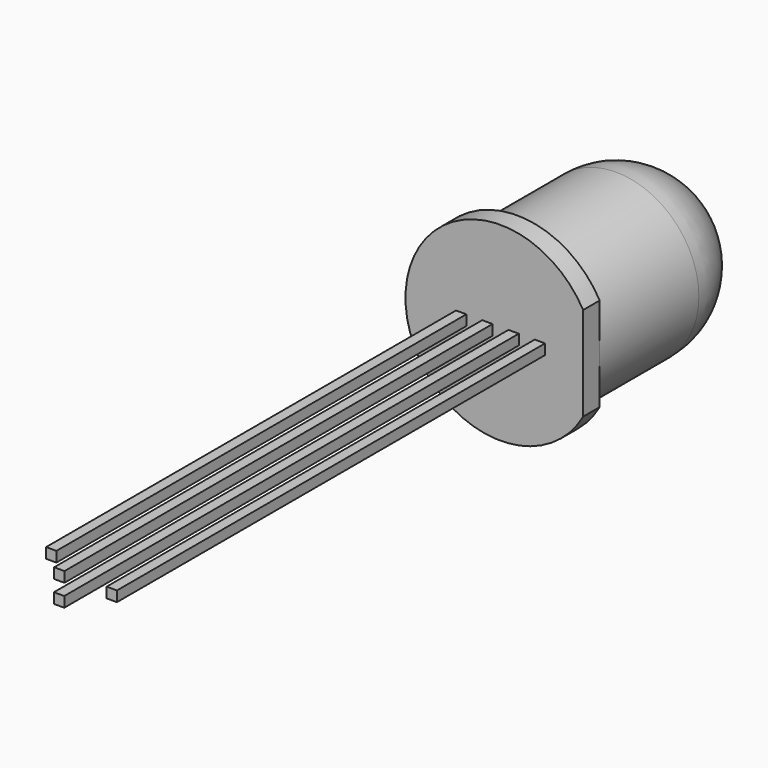
from build123d import *

# Parameters (mm, degrees)
SKETCH002_W  = 1
SKETCH002_H  = 6.098212
POCKET_DEPTH = 5
SKETCH006_W  = 0.5
SKETCH006_H  = 0.5
PAD_DEPTH    = 24.8
SKETCH008_W  = 0.5
SKETCH008_H  = 0.5
PAD001_DEPTH = 25.9
SKETCH010_W  = 0.5
SKETCH010_H  = 0.5
PAD002_DEPTH = 27.5
SKETCH012_W  = 0.5
SKETCH012_H  = 0.5
PAD003_DEPTH = 25.9


with BuildPart() as led_plastic:
    # Sketch → Revolution (revolve)
    with BuildSketch(Plane.XY):
        with BuildLine():
            ThreePointArc((4, 7), (2.828427, 9.828427), (0, 11))
            Line((0, 0), (0, 11))
            Line((4.6, 0), (0, 0))
            Line((4.6, 1), (4.6, 0))
            Line((4, 1), (4.6, 1))
            Line((4, 7), (4, 1))
        make_face()
    revolve(axis=Axis((0, 0, 0), (0, 1, 0)))

    # Sketch002 (on Face2 of Revolution) → Pocket (cut)
    with BuildSketch(Plane.XZ):
        with Locations((4.5, 0)):
            Rectangle(SKETCH002_W, SKETCH002_H)
    extrude(amount=-POCKET_DEPTH, mode=Mode.SUBTRACT)


with BuildPart() as lead4:
    # Sketch006 (on ShapeBinder) → Pad (new body)
    with BuildSketch(Plane.XZ):
        with Locations((-1.905, 0)):
            Rectangle(SKETCH006_W, SKETCH006_H)
    extrude(amount=PAD_DEPTH)


with BuildPart() as lead3:
    # Sketch008 (on ShapeBinder) → Pad001 (new body)
    with BuildSketch(Plane.XZ):
        with Locations((-0.635, 0)):
            Rectangle(SKETCH008_W, SKETCH008_H)
    extrude(amount=PAD001_DEPTH)


with BuildPart() as lead2:
    # Sketch010 (on ShapeBinder) → Pad002 (new body)
    with BuildSketch(Plane.XZ):
        with Locations((0.635, 0)):
            Rectangle(SKETCH010_W, SKETCH010_H)
    extrude(amount=PAD002_DEPTH)


with BuildPart() as lead1:
    # Sketch012 (on ShapeBinder) → Pad003 (new body)
    with BuildSketch(Plane.XZ):
        with Locations((1.905, 0)):
            Rectangle(SKETCH012_W, SKETCH012_H)
    extrude(amount=PAD003_DEPTH)


solid = Compound([led_plastic.part, lead4.part, lead3.part, lead2.part, lead1.part])
